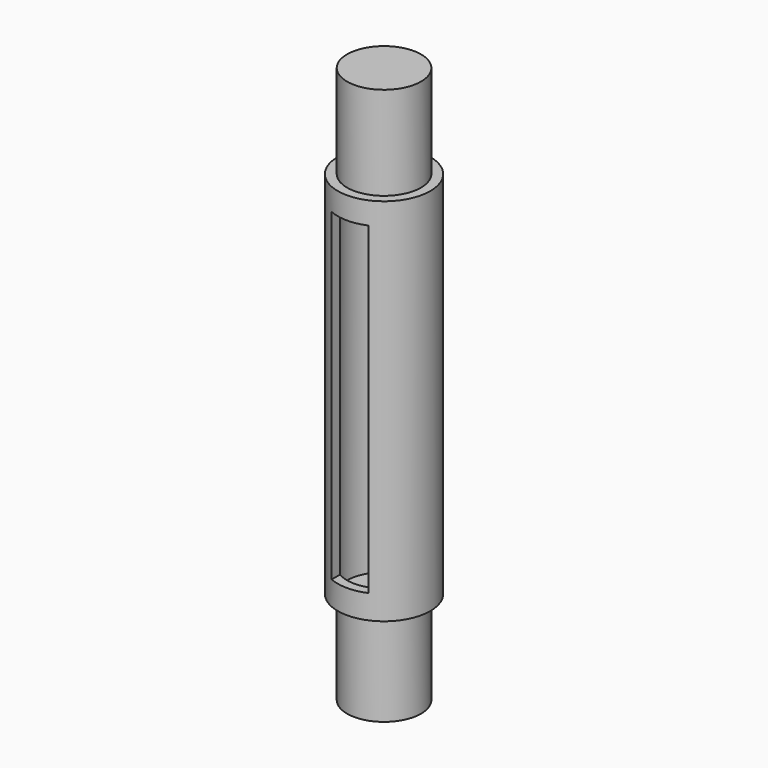
from build123d import *

# Parameters (mm, degrees)
F0_R     = 5.08
F1_DEPTH = 12.827
F2_R     = 6.35
F2_R_2   = 5.08
F3_DEPTH = 50.8
F4_R     = 5.08
F5_DEPTH = 12.827
F7_W     = 5.08
F7_H     = 44.45
F8_DEPTH = 25.4


with BuildPart() as f1:
    # F0 (on Top) → F1 (new body)
    with BuildSketch(Plane.XY):
        Circle(F0_R)
    extrude(amount=F1_DEPTH)


with BuildPart() as f3:
    # F2 (on face) → F3 (new body)
    with BuildSketch(Plane.XY.offset(12.827)):
        Circle(F2_R)
        Circle(F2_R_2, mode=Mode.SUBTRACT)
    extrude(amount=F3_DEPTH)

    # F7 (on offset) → F8 (cut)
    with BuildSketch(Plane.XZ.offset(6.35)):
        with Locations((0, 38.354978)):
            Rectangle(F7_W, F7_H)
    extrude(amount=-F8_DEPTH, mode=Mode.SUBTRACT)


with BuildPart() as f5:
    # F4 (on face) → F5 (new body)
    with BuildSketch(Plane.XY.offset(63.627)):
        Circle(F4_R)
    extrude(amount=F5_DEPTH)


solid = Compound([f1.part, f3.part, f5.part])
